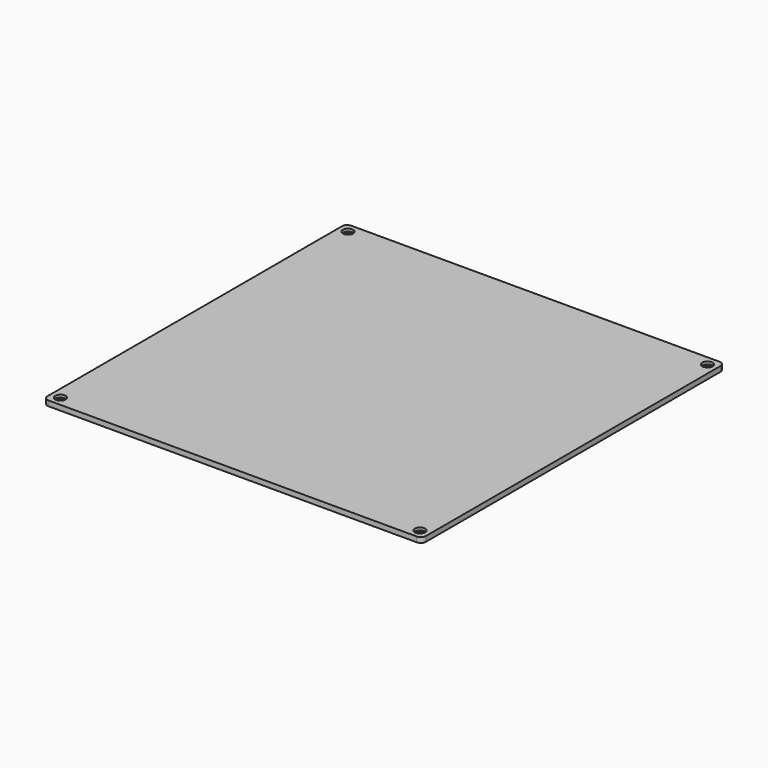
from build123d import *

# Parameters (mm, degrees)
SKETCH_W        = 220
SKETCH_H        = 220
PAD_DEPTH       = 3
SKETCH001_R     = 1.7
POCKET_DEPTH    = 3.001
SKETCH002_R     = 3
POCKET001_DEPTH = 1.5
FILLET_R        = 3


with BuildPart() as part:
    # Sketch → Pad (new body)
    with BuildSketch(Plane.XY):
        Rectangle(SKETCH_W, SKETCH_H)
    extrude(amount=PAD_DEPTH)

    # Sketch001 (on Face6 of Pad) → Pocket (cut, through all)
    with BuildSketch(Plane.XY.offset(3)):
        with Locations((-104.5, 104.5)):
            Circle(SKETCH001_R)
        with Locations((-104.5, -104.5)):
            Circle(SKETCH001_R)
        with Locations((104.5, -104.5)):
            Circle(SKETCH001_R)
        with Locations((104.5, 104.5)):
            Circle(SKETCH001_R)
    extrude(amount=-POCKET_DEPTH, mode=Mode.SUBTRACT)

    # Sketch002 (on Face5 of Pocket) → Pocket001 (cut)
    with BuildSketch(Plane.XY.offset(3)):
        with Locations((-104.5, 104.5)):
            Circle(SKETCH002_R)
        with Locations((-104.5, -104.5)):
            Circle(SKETCH002_R)
        with Locations((104.5, -104.5)):
            Circle(SKETCH002_R)
        with Locations((104.5, 104.5)):
            Circle(SKETCH002_R)
    extrude(amount=-POCKET001_DEPTH, mode=Mode.SUBTRACT)

    # Fillet
    fillet_edges = [part.edges().sort_by_distance(p)[0] for p in [
        (-110, 110, 1.5),
        (-110, -110, 1.5),
        (110, -110, 1.5),
        (110, 110, 1.5),
    ]]
    fillet(fillet_edges, radius=FILLET_R)


solid = part.part
